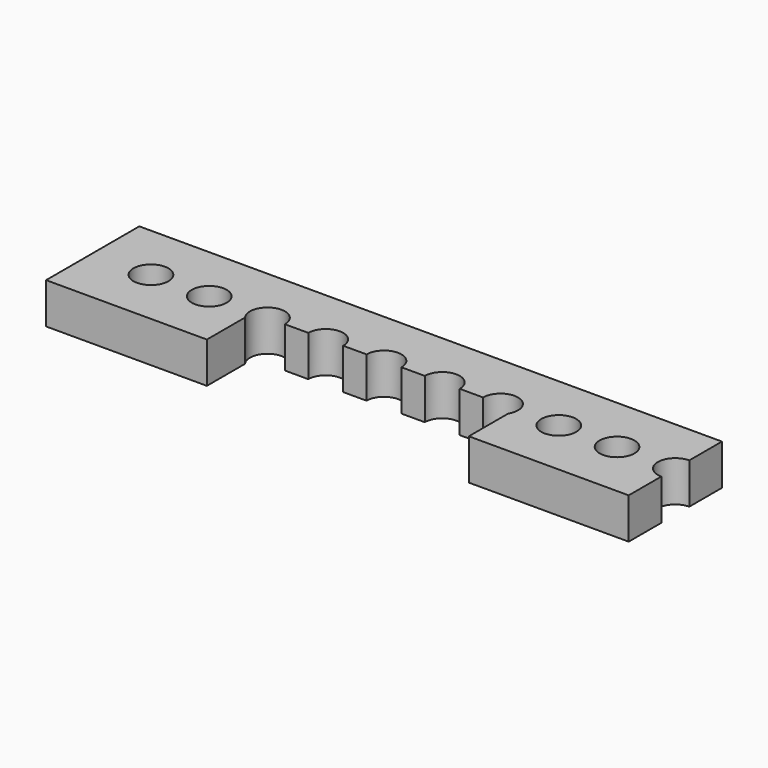
from build123d import *

# Parameters (mm, degrees)
F0_R     = 1.5
F1_DEPTH = 3.5
F2_W     = 22.479
F2_H     = 3.5
F3_DEPTH = 5


with BuildPart() as f1:
    # F0 (on Top) → F1 (new body)
    with BuildSketch(Plane.XY):
        with BuildLine():
            Line((-25, -5), (25, -5))
            Line((25, -5), (25, -1.5))
            ThreePointArc((25, -1.5), (23.5, 0), (25, 1.5))
            Line((25, 1.5), (25, 5))
            Line((25, 5), (-25, 5))
            Line((-25, 5), (-25, -5))
        make_face()
        with Locations((-20, 0)):
            Circle(F0_R, mode=Mode.SUBTRACT)
        with Locations((-15, 0)):
            Circle(F0_R, mode=Mode.SUBTRACT)
        with Locations((-10, 0)):
            Circle(F0_R, mode=Mode.SUBTRACT)
        with Locations((-5, 0)):
            Circle(F0_R, mode=Mode.SUBTRACT)
        Circle(F0_R, mode=Mode.SUBTRACT)
        with Locations((5, 0)):
            Circle(F0_R, mode=Mode.SUBTRACT)
        with Locations((10, 0)):
            Circle(F0_R, mode=Mode.SUBTRACT)
        with Locations((15, 0)):
            Circle(F0_R, mode=Mode.SUBTRACT)
        with Locations((20, 0)):
            Circle(F0_R, mode=Mode.SUBTRACT)
    extrude(amount=F1_DEPTH)

    # F2 (on face) → F3 (cut)
    with BuildSketch(Plane.XZ.offset(5)):
        with Locations((0.0395, 1.75)):
            Rectangle(F2_W, F2_H)
    extrude(amount=-F3_DEPTH, mode=Mode.SUBTRACT)


solid = f1.part
